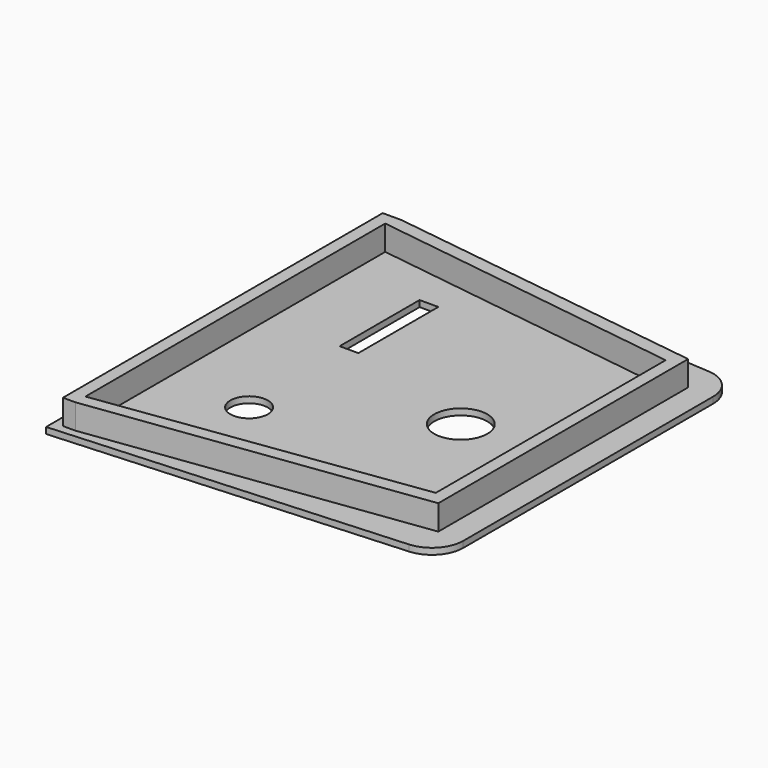
from build123d import *

# Parameters (mm, degrees)
PAD001_DEPTH  = 1
PAD_DEPTH     = 5
SKETCH002_R   = 4.25
SKETCH002_R_2 = 3
SKETCH002_W   = 3
SKETCH002_H   = 16
POCKET_DEPTH  = 5


with BuildPart() as part:
    # Sketch → Pad001 (new body)
    with BuildSketch(Plane.XY):
        with BuildLine():
            Line((0, 67), (0, 0))
            Line((0, 0), (55.315734, 3.5))
            ThreePointArc((55.315734, 3.5), (58.645454, 5.067936), (60, 8.490021))
            Line((60, 8.490021), (60, 58.509979))
            ThreePointArc((60, 58.509979), (58.645454, 61.932064), (55.315734, 63.5))
            Line((55.315734, 63.5), (0, 67))
        make_face()
    extrude(amount=PAD001_DEPTH)

    # Sketch001 → Pad (join)
    with BuildSketch(Plane.XY):
        Polygon((1.5, 65.5), (4.5, 65.5), (56, 58.5), (56, 8.5), (3.5, 1.5), (1.5, 1.5), align=None)
        Polygon((3.5, 63.5), (3.5, 3.5), (54, 10.5), (54, 56.5), align=None, mode=Mode.SUBTRACT)
    extrude(amount=PAD_DEPTH)

    # Sketch002 → Pocket (cut, symmetric)
    with BuildSketch(Plane.XY):
        with Locations((40, 33)):
            Circle(SKETCH002_R)
        with Locations((16.5, 20)):
            Circle(SKETCH002_R_2)
        with Locations((16.5, 48)):
            Rectangle(SKETCH002_W, SKETCH002_H)
    extrude(amount=POCKET_DEPTH, both=True, mode=Mode.SUBTRACT)


solid = part.part
